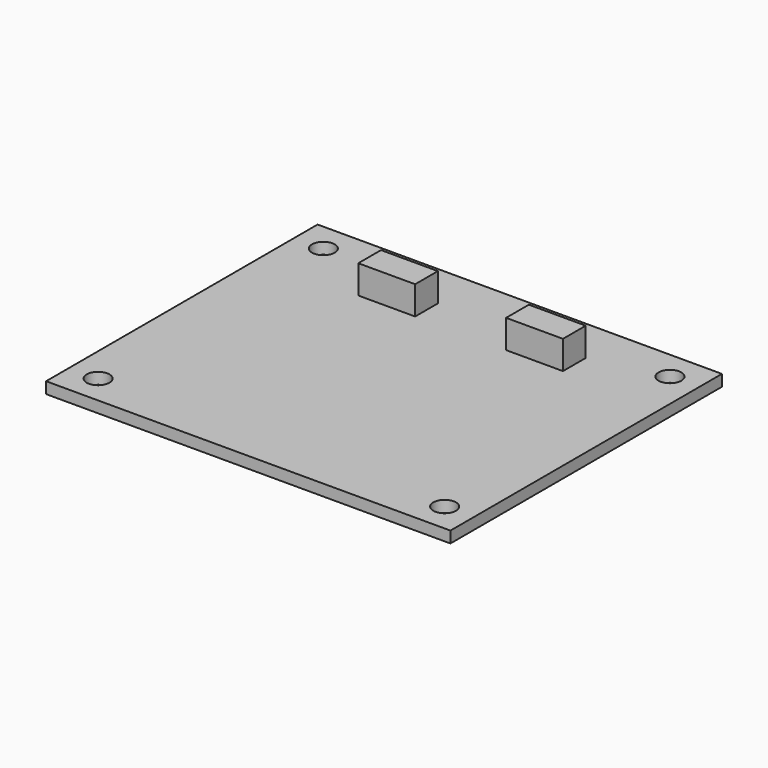
from build123d import *

# Parameters (mm, degrees)
F0_W     = 71.12
F0_H     = 59.69
F0_R     = 2
F1_DEPTH = 2
F2_W     = 10
F2_H     = 5
F3_DEPTH = 5


with BuildPart() as f1:
    # F0 (on Top) → F1 (new body)
    with BuildSketch(Plane.XY):
        Rectangle(F0_W, F0_H)
        with Locations((-30.48, -24.765)):
            Circle(F0_R, mode=Mode.SUBTRACT)
        with Locations((30.48, -24.765)):
            Circle(F0_R, mode=Mode.SUBTRACT)
        with Locations((-30.48, 24.765)):
            Circle(F0_R, mode=Mode.SUBTRACT)
        with Locations((30.48, 24.765)):
            Circle(F0_R, mode=Mode.SUBTRACT)
    extrude(amount=F1_DEPTH)


with BuildPart() as f3:
    # F2 (on face) → F3 (new body)
    with BuildSketch(Plane.XY.offset(2)):
        with Locations((-13, 19.345)):
            Rectangle(F2_W, F2_H)
        with Locations((13, 19.345)):
            Rectangle(F2_W, F2_H)
    extrude(amount=F3_DEPTH)


solid = Compound([f1.part, f3.part])
